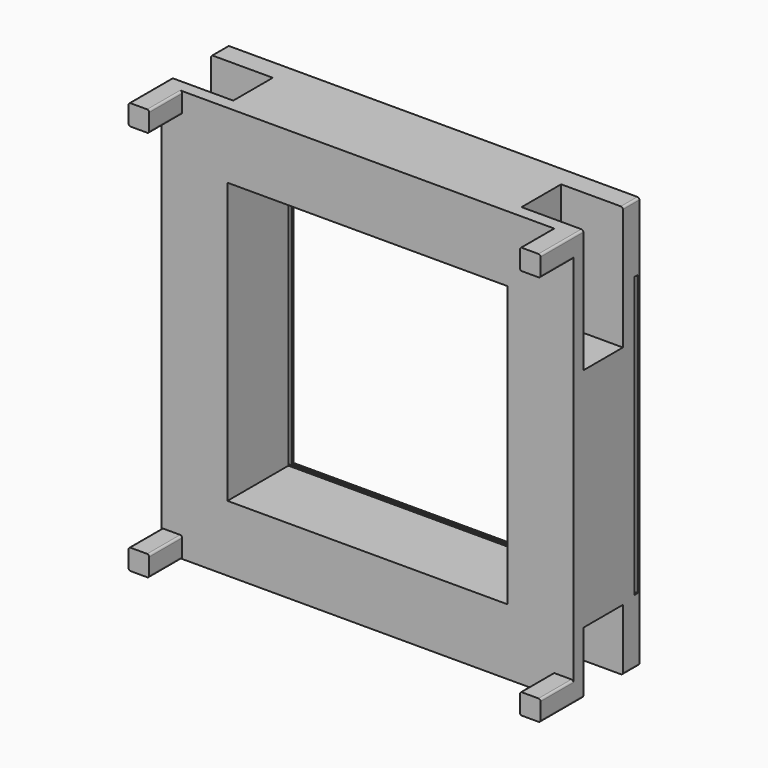
from build123d import *

# Parameters (mm, degrees)
F0_W      = 1000
F0_H      = 1000
F1_DEPTH  = 300
F2_W      = 900
F2_H      = 100
F3_DEPTH  = 1000.001
F4_W      = 100
F4_H      = 900
F5_DEPTH  = 1000.001
F6_W      = 300
F6_H      = 120
F7_DEPTH  = 150
F8_W      = 300
F8_H      = 120
F9_DEPTH  = 150
F10_W     = 120
F10_H     = 300
F11_DEPTH = 150
F12_W     = 120
F12_H     = 300
F13_DEPTH = 150
F14_R     = 5
F15_R     = 5
F16_W     = 680
F16_H     = 680
F17_DEPTH = 300.001
F18_W     = 10
F18_H     = 680
F19_DEPTH = 160.001
F20_DEPTH = 840.001


with BuildPart() as f1:
    # F0 (on Front) → F1 (new body)
    with BuildSketch(Plane.XZ):
        with Locations((450.7653813809, 448.8989327101)):
            Rectangle(F0_W, F0_H)
    extrude(amount=F1_DEPTH)

    # F2 (on face) → F3 (cut, through all)
    with BuildSketch(Plane.XY.offset(948.8989327101)):
        with Locations((450.7653813809, -250)):
            Rectangle(F2_W, F2_H)
    extrude(amount=-F3_DEPTH, mode=Mode.SUBTRACT)

    # F4 (on face) → F5 (cut, through all)
    with BuildSketch(Plane(origin=(-49.2346186191, 0, 0), x_dir=(0, -1, 0), z_dir=(-1, 0, 0))):
        with Locations((250, 448.8989327101)):
            Rectangle(F4_W, F4_H)
    extrude(amount=-F5_DEPTH, mode=Mode.SUBTRACT)

    # F6 (on face) → F7 (cut)
    with BuildSketch(Plane(origin=(0, 0, -51.1010672899), x_dir=(1, 0, 0), z_dir=(0, 0, -1))):
        with Locations((100.7653813809, 110)):
            Rectangle(F6_W, F6_H)
    extrude(amount=-F7_DEPTH, mode=Mode.SUBTRACT)

    # F8 (on face) → F9 (cut)
    with BuildSketch(Plane(origin=(0, 0, -51.1010672899), x_dir=(1, 0, 0), z_dir=(0, 0, -1))):
        with Locations((800.7653813809, 110)):
            Rectangle(F8_W, F8_H)
    extrude(amount=-F9_DEPTH, mode=Mode.SUBTRACT)

    # F10 (on face) → F11 (cut)
    with BuildSketch(Plane.YZ.offset(950.7653813809)):
        with Locations((-110, 798.8989327101)):
            Rectangle(F10_W, F10_H)
    extrude(amount=-F11_DEPTH, mode=Mode.SUBTRACT)

    # F12 (on face) → F13 (cut)
    with BuildSketch(Plane(origin=(-49.2346186191, 0, 0), x_dir=(0, -1, 0), z_dir=(-1, 0, 0))):
        with Locations((110, 798.8989327101)):
            Rectangle(F12_W, F12_H)
    extrude(amount=-F13_DEPTH, mode=Mode.SUBTRACT)

    # F14
    f14_edges = [f1.edges().sort_by_distance(p)[0] for p in [
        (950.765381, -235, -51.101067),
        (900.765381, -250, -51.101067),
        (950.765381, -250, -1.101067),
        (900.765381, -250, -1.101067),
        (-49.234619, -235, -51.101067),
        (0.765381, -250, -51.101067),
        (-49.234619, -250, -1.101067),
        (0.765381, -250, -1.101067),
        (-49.234619, -235, 948.898933),
        (0.765381, -250, 948.898933),
        (-49.234619, -250, 898.898933),
        (0.765381, -250, 898.898933),
        (950.765381, -235, 948.898933),
        (950.765381, -250, 898.898933),
        (900.765381, -250, 898.898933),
        (900.765381, -250, 948.898933),
    ]]
    fillet(f14_edges, radius=F14_R)

    # F15
    f15_edges = [f1.edges().sort_by_distance(p)[0] for p in [
        (950.765381, -25, 948.898933),
        (950.765381, -25, -51.101067),
        (-49.234619, -25, -51.101067),
        (-49.234619, -25, 948.898933),
    ]]
    fillet(f15_edges, radius=F15_R)

    # F16 (on face) → F17 (cut, through all)
    with BuildSketch(Plane(origin=(0, 0, 0), x_dir=(-1, 0, 0), z_dir=(0, 1, 0))):
        with Locations((-450.7653813809, 448.8989327101)):
            Rectangle(F16_W, F16_H)
    extrude(amount=-F17_DEPTH, mode=Mode.SUBTRACT)

    # F18 (on face) → F19 (cut, through all)
    with BuildSketch(Plane.YZ.offset(110.7653813809)):
        with Locations((-10, 445.622831583)):
            Rectangle(F18_W, F18_H)
    extrude(amount=-F19_DEPTH, mode=Mode.SUBTRACT)

    # F18 (on face) → F20 (cut, through all)
    with BuildSketch(Plane.YZ.offset(110.7653813809)):
        with Locations((-10, 445.622831583)):
            Rectangle(F18_W, F18_H)
    extrude(amount=F20_DEPTH, mode=Mode.SUBTRACT)


solid = f1.part
